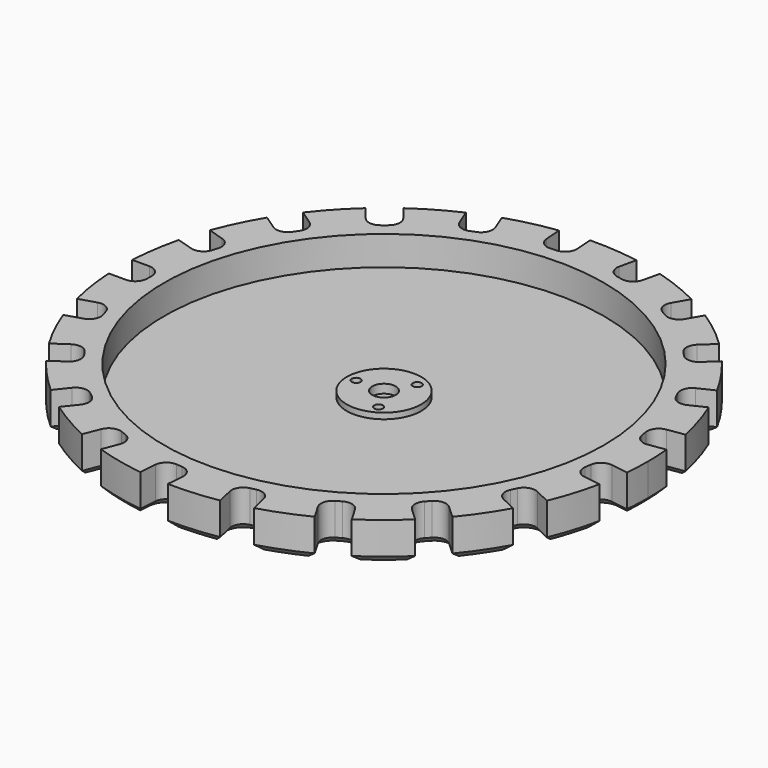
from build123d import *

# Parameters (mm, degrees)
F0_R     = 75
F0_R_2   = 12.7
F0_R_3   = 1.5
F0_R_4   = 4
F1_DEPTH = 3
F2_DEPTH = 13
F3_DEPTH = 5
F4_DEPTH = 2
F5_SIZE  = 2


with BuildPart() as f1:
    # F0 (on Top) → F1 (new body)
    with BuildSketch(Plane.XY):
        Circle(F0_R)
        Circle(F0_R_2, mode=Mode.SUBTRACT)
        Circle(F0_R_2)
        with Locations((-4.75, -8.227241)):
            Circle(F0_R_3, mode=Mode.SUBTRACT)
        with Locations((4.75, -8.227241)):
            Circle(F0_R_3, mode=Mode.SUBTRACT)
        with Locations((-9.5, 0)):
            Circle(F0_R_3, mode=Mode.SUBTRACT)
        with Locations((-4.75, 8.227241)):
            Circle(F0_R_3, mode=Mode.SUBTRACT)
        Circle(F0_R_4, mode=Mode.SUBTRACT)
        with Locations((9.5, 0)):
            Circle(F0_R_3, mode=Mode.SUBTRACT)
        with Locations((4.75, 8.227241)):
            Circle(F0_R_3, mode=Mode.SUBTRACT)
        with Locations((9.5, 0)):
            Circle(F0_R_3)
        with Locations((4.75, 8.227241)):
            Circle(F0_R_3)
        with Locations((-4.75, 8.227241)):
            Circle(F0_R_3)
        with Locations((-9.5, 0)):
            Circle(F0_R_3)
        with Locations((-4.75, -8.227241)):
            Circle(F0_R_3)
        with Locations((4.75, -8.227241)):
            Circle(F0_R_3)
    extrude(amount=F1_DEPTH)

    # F0 (on Top) → F2 (join)
    with BuildSketch(Plane.XY):
        with BuildLine():
            ThreePointArc((89.602542, -8.448934), (89.900581, -4.229139), (90, 0))
            ThreePointArc((90, 0), (89.900581, 4.229139), (89.602542, 8.448934))
            Line((89.602542, 8.448934), (83.807001, 7.575396))
            ThreePointArc((83.807001, 7.575396), (80.835551, 8.312328), (79.255508, 10.93455))
            Line((79.255508, 10.93455), (78.957424, 12.912212))
            ThreePointArc((78.957424, 12.912212), (79.694356, 15.883662), (82.316578, 17.463704))
            Line((82.316578, 17.463704), (88.112119, 18.337242))
            ThreePointArc((88.112119, 18.337242), (86.001553, 26.527966), (83.131386, 34.484384))
            Line((83.131386, 34.484384), (77.850804, 31.94139))
            ThreePointArc((77.850804, 31.94139), (74.794152, 31.769732), (72.511393, 33.80973))
            Line((72.511393, 33.80973), (71.643626, 35.611668))
            ThreePointArc((71.643626, 35.611668), (71.471968, 38.668319), (73.511966, 40.951078))
            Line((73.511966, 40.951078), (78.792548, 43.494073))
            ThreePointArc((78.792548, 43.494073), (74.36149, 50.698805), (69.273641, 57.455746))
            Line((69.273641, 57.455746), (64.977221, 53.469251))
            ThreePointArc((64.977221, 53.469251), (62.106965, 52.404255), (59.324322, 53.680767))
            Line((59.324322, 53.680767), (57.963977, 55.146871))
            ThreePointArc((57.963977, 55.146871), (56.898982, 58.017127), (58.175494, 60.799769))
            Line((58.175494, 60.799769), (62.471913, 64.786264))
            ThreePointArc((62.471913, 64.786264), (56.114082, 70.364833), (49.260629, 75.321912))
            Line((49.260629, 75.321912), (46.330127, 70.246134))
            ThreePointArc((46.330127, 70.246134), (43.901302, 68.382431), (40.866025, 68.782032))
            Line((40.866025, 68.782032), (39.133975, 69.782032))
            ThreePointArc((39.133975, 69.782032), (37.270271, 72.210858), (37.669873, 75.246134))
            Line((37.669873, 75.246134), (40.600375, 80.321912))
            ThreePointArc((40.600375, 80.321912), (32.880692, 83.778637), (24.870594, 86.495396))
            Line((24.870594, 86.495396), (23.566398, 80.78134))
            ThreePointArc((23.566398, 80.78134), (21.794815, 78.284527), (18.776603, 77.771712))
            Line((18.776603, 77.771712), (16.826747, 78.216754))
            ThreePointArc((16.826747, 78.216754), (14.329934, 79.988337), (13.817119, 83.006549))
            Line((13.817119, 83.006549), (15.121315, 88.720605))
            ThreePointArc((15.121315, 88.720605), (6.725708, 89.748342), (-1.729302, 89.983385))
            Line((-1.729302, 89.983385), (-1.291309, 84.138769))
            ThreePointArc((-1.291309, 84.138769), (-2.248237, 81.230699), (-4.981204, 79.851034))
            Line((-4.981204, 79.851034), (-6.975611, 79.701574))
            ThreePointArc((-6.975611, 79.701574), (-9.883681, 80.658502), (-11.263347, 83.391468))
            Line((-11.263347, 83.391468), (-11.70134, 89.236084))
            ThreePointArc((-11.70134, 89.236084), (-20.026884, 87.743512), (-28.175542, 85.475955))
            Line((-28.175542, 85.475955), (-26.034277, 80.0201))
            ThreePointArc((-26.034277, 80.0201), (-26.091523, 76.959168), (-28.296408, 74.835241))
            Line((-28.296408, 74.835241), (-30.158156, 74.104559))
            ThreePointArc((-30.158156, 74.104559), (-33.219088, 74.161805), (-35.343015, 76.36669))
            Line((-35.343015, 76.36669), (-37.48428, 81.822544))
            ThreePointArc((-37.48428, 81.822544), (-45, 77.942286), (-52.118262, 73.373611))
            Line((-52.118262, 73.373611), (-48.463986, 68.791294))
            ThreePointArc((-48.463986, 68.791294), (-47.616463, 65.849476), (-49.097353, 63.170008))
            Line((-49.097353, 63.170008), (-50.661016, 61.923029))
            ThreePointArc((-50.661016, 61.923029), (-53.602833, 61.075506), (-56.282301, 62.556396))
            Line((-56.282301, 62.556396), (-59.936577, 67.138713))
            ThreePointArc((-59.936577, 67.138713), (-65.974668, 61.215546), (-71.430045, 54.7517))
            Line((-71.430045, 54.7517), (-66.587457, 51.450079))
            ThreePointArc((-66.587457, 51.450079), (-64.910471, 48.88877), (-65.535782, 45.891843))
            Line((-65.535782, 45.891843), (-66.662422, 44.239366))
            ThreePointArc((-66.662422, 44.239366), (-69.223731, 42.56238), (-72.220657, 43.187691))
            Line((-72.220657, 43.187691), (-77.063246, 46.489312))
            ThreePointArc((-77.063246, 46.489312), (-81.087198, 39.049537), (-84.394956, 31.26486))
            Line((-84.394956, 31.26486), (-78.79434, 29.537299))
            ThreePointArc((-78.79434, 29.537299), (-76.436899, 27.584082), (-76.151069, 24.535987))
            Line((-76.151069, 24.535987), (-76.74058, 22.624841))
            ThreePointArc((-76.74058, 22.624841), (-78.693796, 20.2674), (-81.741892, 19.981571))
            Line((-81.741892, 19.981571), (-87.342507, 21.709132))
            ThreePointArc((-87.342507, 21.709132), (-88.994774, 13.413804), (-89.861004, 5))
            Line((-89.861004, 5), (-84, 5))
            ThreePointArc((-84, 5), (-81.171573, 3.828427), (-80, 1))
            Line((-80, 1), (-80, -1))
            ThreePointArc((-80, -1), (-81.171573, -3.828427), (-84, -5))
            Line((-84, -5), (-89.861004, -5))
            ThreePointArc((-89.861004, -5), (-88.994774, -13.413804), (-87.342507, -21.709132))
            Line((-87.342507, -21.709132), (-81.741892, -19.981571))
            ThreePointArc((-81.741892, -19.981571), (-78.693796, -20.2674), (-76.74058, -22.624841))
            Line((-76.74058, -22.624841), (-76.151069, -24.535987))
            ThreePointArc((-76.151069, -24.535987), (-76.436899, -27.584082), (-78.79434, -29.537299))
            Line((-78.79434, -29.537299), (-84.394956, -31.26486))
            ThreePointArc((-84.394956, -31.26486), (-81.087198, -39.049537), (-77.063246, -46.489312))
            Line((-77.063246, -46.489312), (-72.220657, -43.187691))
            ThreePointArc((-72.220657, -43.187691), (-69.223731, -42.56238), (-66.662422, -44.239366))
            Line((-66.662422, -44.239366), (-65.535782, -45.891843))
            ThreePointArc((-65.535782, -45.891843), (-64.910471, -48.88877), (-66.587457, -51.450079))
            Line((-66.587457, -51.450079), (-71.430045, -54.7517))
            ThreePointArc((-71.430045, -54.7517), (-65.974668, -61.215546), (-59.936577, -67.138713))
            Line((-59.936577, -67.138713), (-56.282301, -62.556396))
            ThreePointArc((-56.282301, -62.556396), (-53.602833, -61.075506), (-50.661016, -61.923029))
            Line((-50.661016, -61.923029), (-49.097353, -63.170008))
            ThreePointArc((-49.097353, -63.170008), (-47.616463, -65.849476), (-48.463986, -68.791294))
            Line((-48.463986, -68.791294), (-52.118262, -73.373611))
            ThreePointArc((-52.118262, -73.373611), (-45, -77.942286), (-37.48428, -81.822544))
            Line((-37.48428, -81.822544), (-35.343015, -76.36669))
            ThreePointArc((-35.343015, -76.36669), (-33.219088, -74.161805), (-30.158156, -74.104559))
            Line((-30.158156, -74.104559), (-28.296408, -74.835241))
            ThreePointArc((-28.296408, -74.835241), (-26.091523, -76.959168), (-26.034277, -80.0201))
            Line((-26.034277, -80.0201), (-28.175542, -85.475955))
            ThreePointArc((-28.175542, -85.475955), (-20.026884, -87.743512), (-11.70134, -89.236084))
            Line((-11.70134, -89.236084), (-11.263347, -83.391468))
            ThreePointArc((-11.263347, -83.391468), (-9.883681, -80.658502), (-6.975611, -79.701574))
            Line((-6.975611, -79.701574), (-4.981204, -79.851034))
            ThreePointArc((-4.981204, -79.851034), (-2.248237, -81.230699), (-1.291309, -84.138769))
            Line((-1.291309, -84.138769), (-1.729302, -89.983385))
            ThreePointArc((-1.729302, -89.983385), (6.725708, -89.748342), (15.121315, -88.720605))
            Line((15.121315, -88.720605), (13.817119, -83.006549))
            ThreePointArc((13.817119, -83.006549), (14.329934, -79.988337), (16.826747, -78.216754))
            Line((16.826747, -78.216754), (18.776603, -77.771712))
            ThreePointArc((18.776603, -77.771712), (21.794815, -78.284527), (23.566398, -80.78134))
            Line((23.566398, -80.78134), (24.870594, -86.495396))
            ThreePointArc((24.870594, -86.495396), (32.880692, -83.778637), (40.600375, -80.321912))
            Line((40.600375, -80.321912), (37.669873, -75.246134))
            ThreePointArc((37.669873, -75.246134), (37.270271, -72.210858), (39.133975, -69.782032))
            Line((39.133975, -69.782032), (40.866025, -68.782032))
            ThreePointArc((40.866025, -68.782032), (43.901302, -68.382431), (46.330127, -70.246134))
            Line((46.330127, -70.246134), (49.260629, -75.321912))
            ThreePointArc((49.260629, -75.321912), (56.114082, -70.364833), (62.471913, -64.786264))
            Line((62.471913, -64.786264), (58.175494, -60.799769))
            ThreePointArc((58.175494, -60.799769), (56.898982, -58.017127), (57.963977, -55.146871))
            Line((57.963977, -55.146871), (59.324322, -53.680767))
            ThreePointArc((59.324322, -53.680767), (62.106965, -52.404255), (64.977221, -53.469251))
            Line((64.977221, -53.469251), (69.273641, -57.455746))
            ThreePointArc((69.273641, -57.455746), (74.36149, -50.698805), (78.792548, -43.494073))
            Line((78.792548, -43.494073), (73.511966, -40.951078))
            ThreePointArc((73.511966, -40.951078), (71.471968, -38.668319), (71.643626, -35.611668))
            Line((71.643626, -35.611668), (72.511393, -33.80973))
            ThreePointArc((72.511393, -33.80973), (74.794152, -31.769732), (77.850804, -31.94139))
            Line((77.850804, -31.94139), (83.131386, -34.484384))
            ThreePointArc((83.131386, -34.484384), (86.001553, -26.527966), (88.112119, -18.337242))
            Line((88.112119, -18.337242), (82.316578, -17.463704))
            ThreePointArc((82.316578, -17.463704), (79.694356, -15.883662), (78.957424, -12.912212))
            Line((78.957424, -12.912212), (79.255508, -10.93455))
            ThreePointArc((79.255508, -10.93455), (80.835551, -8.312328), (83.807001, -7.575396))
            Line((83.807001, -7.575396), (89.602542, -8.448934))
        make_face()
        Circle(F0_R, mode=Mode.SUBTRACT)
    extrude(amount=F2_DEPTH)

    # F0 (on Top) → F3 (join)
    with BuildSketch(Plane.XY):
        Circle(F0_R_2)
        with Locations((-4.75, -8.227241)):
            Circle(F0_R_3, mode=Mode.SUBTRACT)
        with Locations((4.75, -8.227241)):
            Circle(F0_R_3, mode=Mode.SUBTRACT)
        with Locations((-9.5, 0)):
            Circle(F0_R_3, mode=Mode.SUBTRACT)
        with Locations((-4.75, 8.227241)):
            Circle(F0_R_3, mode=Mode.SUBTRACT)
        Circle(F0_R_4, mode=Mode.SUBTRACT)
        with Locations((9.5, 0)):
            Circle(F0_R_3, mode=Mode.SUBTRACT)
        with Locations((4.75, 8.227241)):
            Circle(F0_R_3, mode=Mode.SUBTRACT)
        with Locations((-4.75, 8.227241)):
            Circle(F0_R_3)
        with Locations((9.5, 0)):
            Circle(F0_R_3)
        with Locations((-4.75, -8.227241)):
            Circle(F0_R_3)
    extrude(amount=F3_DEPTH)

    # F0 (on Top) → F4 (join)
    with BuildSketch(Plane.XY):
        Circle(F0_R_4)
    extrude(amount=F4_DEPTH)

    # F5
    f5_edges = [f1.edges().sort_by_distance(p)[0] for p in [
        (6.725708, -89.748342, 0),
        (14.469217, -85.863577, 0),
        (14.329934, -79.988337, 0),
        (17.801675, -77.994233, 0),
        (21.794815, -78.284527, 0),
        (24.218496, -83.638368, 0),
        (32.880692, -83.778637, 0),
        (39.135124, -77.784023, 0),
        (37.270271, -72.210858, 0),
        (40, -69.282032, 0),
        (43.901302, -68.382431, 0),
        (47.795378, -72.784023, 0),
        (56.114082, -70.364833, 0),
        (60.323703, -62.793017, 0),
        (56.898982, -58.017127, 0),
        (58.64415, -54.413819, 0),
        (62.106965, -52.404255, 0),
        (67.125431, -55.462498, 0),
        (74.36149, -50.698805, 0),
        (76.152257, -42.222576, 0),
        (71.471968, -38.668319, 0),
        (72.077509, -34.710699, 0),
        (74.794152, -31.769732, 0),
        (80.491095, -33.212887, 0),
        (86.001553, -26.527966, 0),
        (85.214349, -17.900473, 0),
        (79.694356, -15.883662, 0),
        (79.106466, -11.923381, 0),
        (80.835551, -8.312328, 0),
        (86.704771, -8.012165, 0),
        (90, 0, 0),
        (86.704771, 8.012165, 0),
        (80.835551, 8.312328, 0),
        (79.106466, 11.923381, 0),
        (79.694356, 15.883662, 0),
        (85.214349, 17.900473, 0),
        (86.001553, 26.527966, 0),
        (80.491095, 33.212887, 0),
        (74.794152, 31.769732, 0),
        (72.077509, 34.710699, 0),
        (71.471968, 38.668319, 0),
        (76.152257, 42.222576, 0),
        (74.36149, 50.698805, 0),
        (67.125431, 55.462498, 0),
        (62.106965, 52.404255, 0),
        (58.64415, 54.413819, 0),
        (56.898982, 58.017127, 0),
        (60.323703, 62.793017, 0),
        (56.114082, 70.364833, 0),
        (47.795378, 72.784023, 0),
        (43.901302, 68.382431, 0),
        (40, 69.282032, 0),
        (37.270271, 72.210858, 0),
        (39.135124, 77.784023, 0),
        (32.880692, 83.778637, 0),
        (24.218496, 83.638368, 0),
        (21.794815, 78.284527, 0),
        (17.801675, 77.994233, 0),
        (14.329934, 79.988337, 0),
        (14.469217, 85.863577, 0),
        (6.725708, 89.748342, 0),
        (-1.510306, 87.061077, 0),
        (-2.248237, 81.230699, 0),
        (-5.978407, 79.776304, 0),
        (-9.883681, 80.658502, 0),
        (-11.482344, 86.313776, 0),
        (-20.026884, 87.743512, 0),
        (-27.10491, 82.748027, 0),
        (-26.091523, 76.959168, 0),
        (-29.227282, 74.4699, 0),
        (-33.219088, 74.161805, 0),
        (-36.413647, 79.094617, 0),
        (-45, 77.942286, 0),
        (-50.291124, 71.082452, 0),
        (-47.616463, 65.849476, 0),
        (-49.879184, 62.546519, 0),
        (-53.602833, 61.075506, 0),
        (-58.109439, 64.847554, 0),
        (-65.974668, 61.215546, 0),
        (-69.008751, 53.100889, 0),
        (-64.910471, 48.88877, 0),
        (-66.099102, 45.065605, 0),
        (-69.223731, 42.56238, 0),
        (-74.641952, 44.838502, 0),
        (-81.087198, 39.049537, 0),
        (-81.594648, 30.401079, 0),
        (-76.436899, 27.584082, 0),
        (-76.445824, 23.580414, 0),
        (-78.693796, 20.2674, 0),
        (-84.542199, 20.845351, 0),
        (-88.994774, 13.413804, 0),
        (-86.930502, 5, 0),
        (-81.171573, 3.828427, 0),
        (-80, 0, 0),
        (-81.171573, -3.828427, 0),
        (-86.930502, -5, 0),
        (-88.994774, -13.413804, 0),
        (-84.542199, -20.845351, 0),
        (-78.693796, -20.2674, 0),
        (-76.445824, -23.580414, 0),
        (-76.436899, -27.584082, 0),
        (-81.594648, -30.401079, 0),
        (-81.087198, -39.049537, 0),
        (-74.641952, -44.838502, 0),
        (-69.223731, -42.56238, 0),
        (-66.099102, -45.065605, 0),
        (-64.910471, -48.88877, 0),
        (-69.008751, -53.100889, 0),
        (-65.974668, -61.215546, 0),
        (-58.109439, -64.847554, 0),
        (-53.602833, -61.075506, 0),
        (-49.879184, -62.546519, 0),
        (-47.616463, -65.849476, 0),
        (-50.291124, -71.082452, 0),
        (-45, -77.942286, 0),
        (-36.413647, -79.094617, 0),
        (-33.219088, -74.161805, 0),
        (-29.227282, -74.4699, 0),
        (-26.091523, -76.959168, 0),
        (-27.10491, -82.748027, 0),
        (-20.026884, -87.743512, 0),
        (-11.482344, -86.313776, 0),
        (-9.883681, -80.658502, 0),
        (-5.978407, -79.776304, 0),
        (-2.248237, -81.230699, 0),
        (-1.510306, -87.061077, 0),
    ]]
    chamfer(f5_edges, length=F5_SIZE)


solid = f1.part
